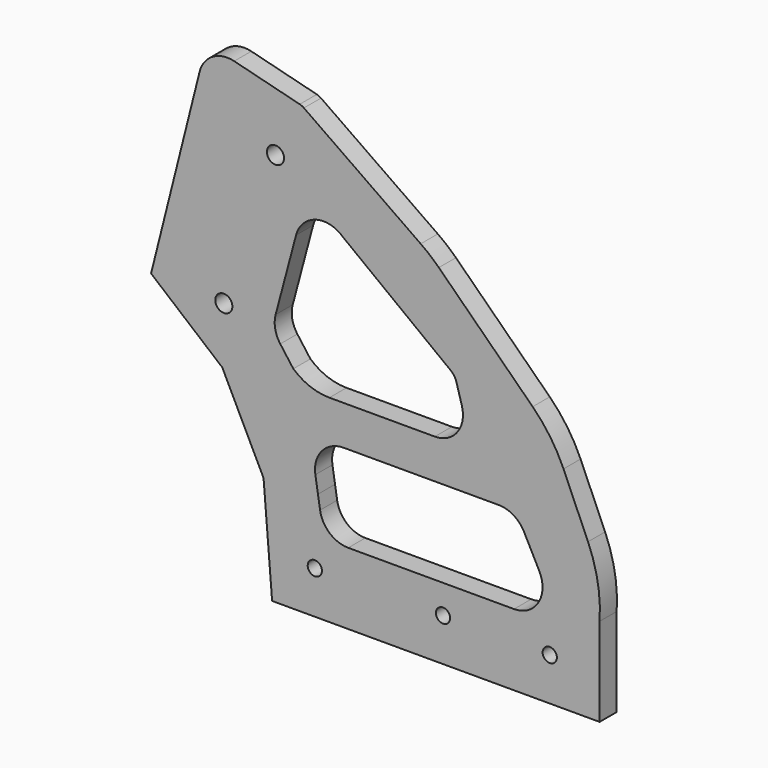
from build123d import *

# Parameters (mm, degrees)
F0_R     = 5
F0_R_2   = 6
F1_DEPTH = 15


with BuildPart() as f1:
    # F0 (on Front) → F1 (new body)
    with BuildSketch(Plane.XZ):
        with BuildLine():
            Line((-6, 74), (0, 0))
            Line((0, 0), (230, 0))
            Line((230, 0), (230, 62.176589))
            ThreePointArc((230, 62.176589), (228.723522, 85.95288), (221.862231, 108.753409))
            Line((221.862231, 108.753409), (204.642163, 148.19601))
            ThreePointArc((204.642163, 148.19601), (195.329936, 164.938958), (182.99568, 179.598768))
            Line((182.99568, 179.598768), (117.097579, 244.191827))
            ThreePointArc((117.097579, 244.191827), (110.952624, 249.735539), (104.370306, 254.752141))
            Line((104.370306, 254.752141), (22.342715, 312.061893))
            ThreePointArc((22.342715, 312.061893), (20.938244, 312.865012), (19.412272, 313.402552))
            Line((19.412272, 313.402552), (-26.617369, 325.072897))
            ThreePointArc((-26.617369, 325.072897), (-41.786059, 322.858007), (-50.930997, 310.55496))
            Line((-50.930997, 310.55496), (-85, 174.812714))
            Line((-85, 174.812714), (-35, 133))
            Line((-35, 133), (-6, 74))
        make_face()
        with Locations((30, 30)):
            Circle(F0_R, mode=Mode.SUBTRACT)
        with Locations((120, 30)):
            Circle(F0_R, mode=Mode.SUBTRACT)
        with BuildLine():
            Line((169.929019, 50.23532), (53.444018, 50.23532))
            ThreePointArc((53.444018, 50.23532), (40.458556, 55.024213), (33.691693, 67.097542))
            Line((33.691693, 67.097542), (32.201326, 76.47941))
            Line((32.201326, 76.47941), (30.38145, 87.935537))
            ThreePointArc((30.38145, 87.935537), (34.922668, 104.058777), (50.133775, 111.073315))
            Line((50.133775, 111.073315), (159.164874, 111.073315))
            ThreePointArc((159.164874, 111.073315), (169.567301, 108.155163), (176.934141, 100.252267))
            Line((176.934141, 100.252267), (187.698286, 79.414272))
            ThreePointArc((187.698286, 79.414272), (187.010866, 59.832893), (169.929019, 50.23532))
        make_face(mode=Mode.SUBTRACT)
        with Locations((195, 30)):
            Circle(F0_R, mode=Mode.SUBTRACT)
        with Locations((-33.904197, 173)):
            Circle(F0_R_2, mode=Mode.SUBTRACT)
        with BuildLine():
            Line((114.267046, 138.769165), (40.231362, 138.769165))
            ThreePointArc((40.231362, 138.769165), (26.688392, 141.251924), (14.906829, 148.377294))
            Line((14.906829, 148.377294), (5.731766, 160.771836))
            ThreePointArc((5.731766, 160.771836), (2.160372, 168.926624), (2.481669, 177.823376))
            Line((2.481669, 177.823376), (16.827184, 231.632176))
            ThreePointArc((16.827184, 231.632176), (30.546302, 245.678377), (49.668239, 241.221757))
            Line((49.668239, 241.221757), (125.948667, 182.929884))
            ThreePointArc((125.948667, 182.929884), (128.11886, 180.372737), (129.486785, 177.310463))
            Line((129.486785, 177.310463), (133.292227, 163.991418))
            ThreePointArc((133.292227, 163.991418), (130.063561, 146.640318), (114.267046, 138.769165))
        make_face(mode=Mode.SUBTRACT)
        with Locations((2.371988, 276.457316)):
            Circle(F0_R_2, mode=Mode.SUBTRACT)
        with BuildLine():
            Line((-6, 74), (0, 0))
            Line((0, 0), (230, 0))
            Line((230, 0), (230, 62.176589))
            ThreePointArc((230, 62.176589), (228.723522, 85.95288), (221.862231, 108.753409))
            Line((221.862231, 108.753409), (204.642163, 148.19601))
            ThreePointArc((204.642163, 148.19601), (195.329936, 164.938958), (182.99568, 179.598768))
            Line((182.99568, 179.598768), (117.097579, 244.191827))
            ThreePointArc((117.097579, 244.191827), (110.952624, 249.735539), (104.370306, 254.752141))
            Line((104.370306, 254.752141), (22.342715, 312.061893))
            ThreePointArc((22.342715, 312.061893), (20.938244, 312.865012), (19.412272, 313.402552))
            Line((19.412272, 313.402552), (-26.617369, 325.072897))
            ThreePointArc((-26.617369, 325.072897), (-41.786059, 322.858007), (-50.930997, 310.55496))
            Line((-50.930997, 310.55496), (-85, 174.812714))
            Line((-85, 174.812714), (-35, 133))
            Line((-35, 133), (-6, 74))
        make_face()
        with Locations((30, 30)):
            Circle(F0_R, mode=Mode.SUBTRACT)
        with Locations((120, 30)):
            Circle(F0_R, mode=Mode.SUBTRACT)
        with BuildLine():
            Line((169.929019, 50.23532), (53.444018, 50.23532))
            ThreePointArc((53.444018, 50.23532), (40.458556, 55.024213), (33.691693, 67.097542))
            Line((33.691693, 67.097542), (32.201326, 76.47941))
            Line((32.201326, 76.47941), (30.38145, 87.935537))
            ThreePointArc((30.38145, 87.935537), (34.922668, 104.058777), (50.133775, 111.073315))
            Line((50.133775, 111.073315), (159.164874, 111.073315))
            ThreePointArc((159.164874, 111.073315), (169.567301, 108.155163), (176.934141, 100.252267))
            Line((176.934141, 100.252267), (187.698286, 79.414272))
            ThreePointArc((187.698286, 79.414272), (187.010866, 59.832893), (169.929019, 50.23532))
        make_face(mode=Mode.SUBTRACT)
        with Locations((195, 30)):
            Circle(F0_R, mode=Mode.SUBTRACT)
        with Locations((-33.904197, 173)):
            Circle(F0_R_2, mode=Mode.SUBTRACT)
        with BuildLine():
            Line((114.267046, 138.769165), (40.231362, 138.769165))
            ThreePointArc((40.231362, 138.769165), (26.688392, 141.251924), (14.906829, 148.377294))
            Line((14.906829, 148.377294), (5.731766, 160.771836))
            ThreePointArc((5.731766, 160.771836), (2.160372, 168.926624), (2.481669, 177.823376))
            Line((2.481669, 177.823376), (16.827184, 231.632176))
            ThreePointArc((16.827184, 231.632176), (30.546302, 245.678377), (49.668239, 241.221757))
            Line((49.668239, 241.221757), (125.948667, 182.929884))
            ThreePointArc((125.948667, 182.929884), (128.11886, 180.372737), (129.486785, 177.310463))
            Line((129.486785, 177.310463), (133.292227, 163.991418))
            ThreePointArc((133.292227, 163.991418), (130.063561, 146.640318), (114.267046, 138.769165))
        make_face(mode=Mode.SUBTRACT)
        with Locations((2.371988, 276.457316)):
            Circle(F0_R_2, mode=Mode.SUBTRACT)
    extrude(amount=F1_DEPTH)


solid = f1.part
